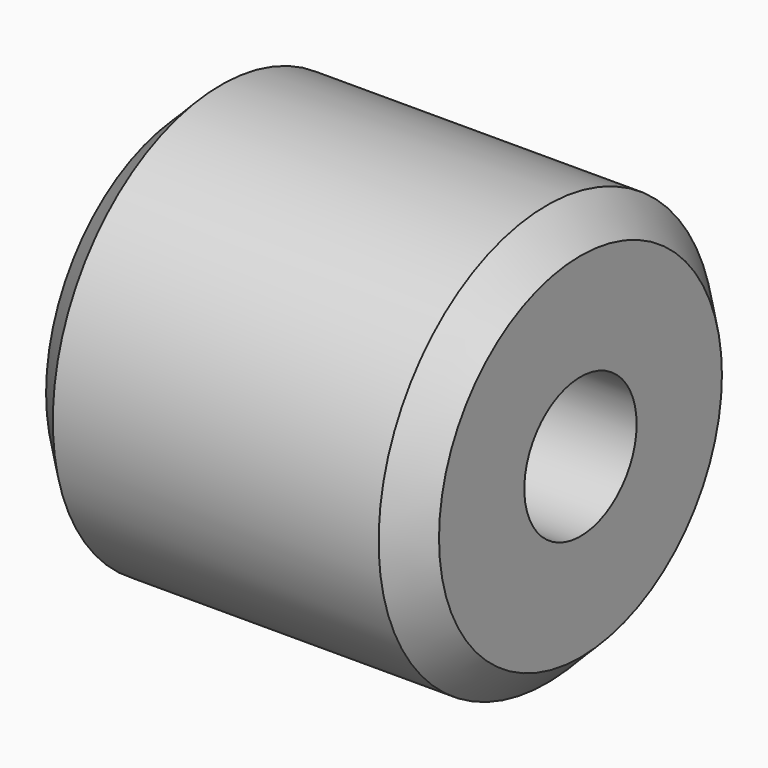
from build123d import *

# Parameters (mm, degrees)
F0_R     = 4.765
F0_R_2   = 1.59
F1_DEPTH = 4.45
F2_SIZE  = 0.76


with BuildPart() as f1:
    # F0 (on Right) → F1 (new body, symmetric)
    with BuildSketch(Plane.YZ):
        Circle(F0_R)
        Circle(F0_R_2, mode=Mode.SUBTRACT)
    extrude(amount=F1_DEPTH, both=True)

    # F2
    f2_edges = [f1.edges().sort_by_distance(p)[0] for p in [
        (-4.45, -4.765, 0),
        (0, 4.765, 0),
        (4.45, -4.765, 0),
    ]]
    chamfer(f2_edges, length=F2_SIZE)


solid = f1.part
